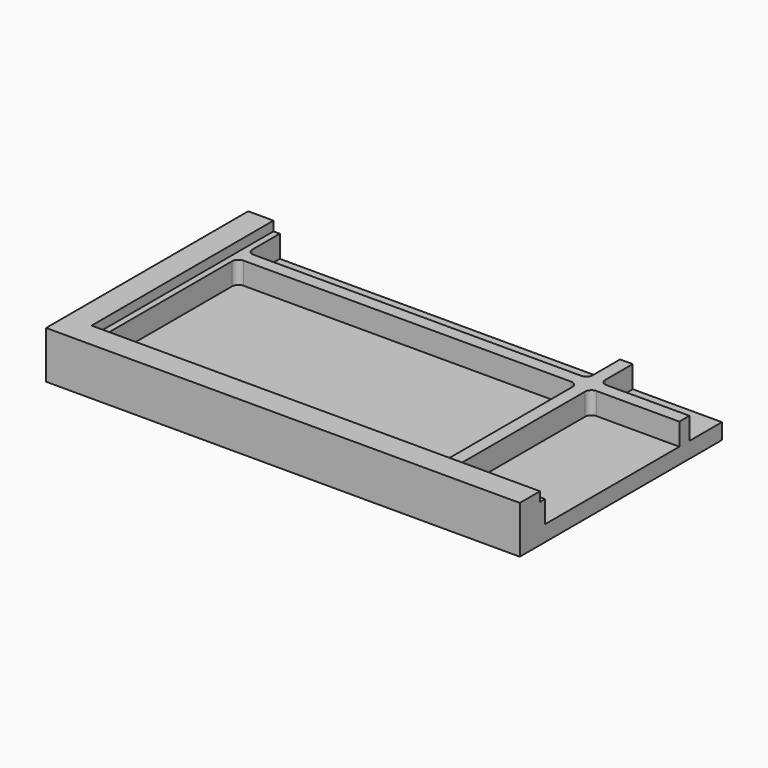
from build123d import *

# Parameters (mm, degrees)
F0_W     = 150
F0_H     = 80
F1_DEPTH = 12
F2_W     = 142
F2_H     = 8
F3_DEPTH = 3
F4_W     = 107.76
F4_H     = 12.85
F4_H_2   = 53.15
F4_W_2   = 28.24
F5_DEPTH = 7
F6_R     = 2


with BuildPart() as f1:
    # F0 (on Top) → F1 (new body)
    with BuildSketch(Plane.XY):
        with Locations((75, 40)):
            Rectangle(F0_W, F0_H)
    extrude(amount=F1_DEPTH)

    # F2 (on face) → F3 (join)
    with BuildSketch(Plane.XY.offset(12)):
        Polygon((0, 80), (0, 0), (8, 0), (8, 8), (8, 80), align=None)
        with Locations((79, 4)):
            Rectangle(F2_W, F2_H)
    extrude(amount=F3_DEPTH)

    # F4 (on face) → F5 (cut)
    with BuildSketch(Plane.XY.offset(12)):
        with Locations((63.88, 73.575)):
            Rectangle(F4_W, F4_H)
        with Locations((63.88, 36.575)):
            Rectangle(F4_W, F4_H_2)
        with Locations((135.88, 36.575)):
            Rectangle(F4_W_2, F4_H_2)
        with Locations((135.88, 73.575)):
            Rectangle(F4_W_2, F4_H)
    extrude(amount=-F5_DEPTH, mode=Mode.SUBTRACT)

    # F6
    f6_edges = [f1.edges().sort_by_distance(p)[0] for p in [
        (10, 63.15, 8.5),
        (117.76, 63.15, 8.5),
        (121.76, 63.15, 8.5),
        (121.76, 67.15, 8.5),
        (117.76, 67.15, 8.5),
        (117.76, 10, 8.5),
        (10, 10, 8.5),
        (10, 67.15, 8.5),
        (121.76, 10, 8.5),
    ]]
    fillet(f6_edges, radius=F6_R)


solid = f1.part
